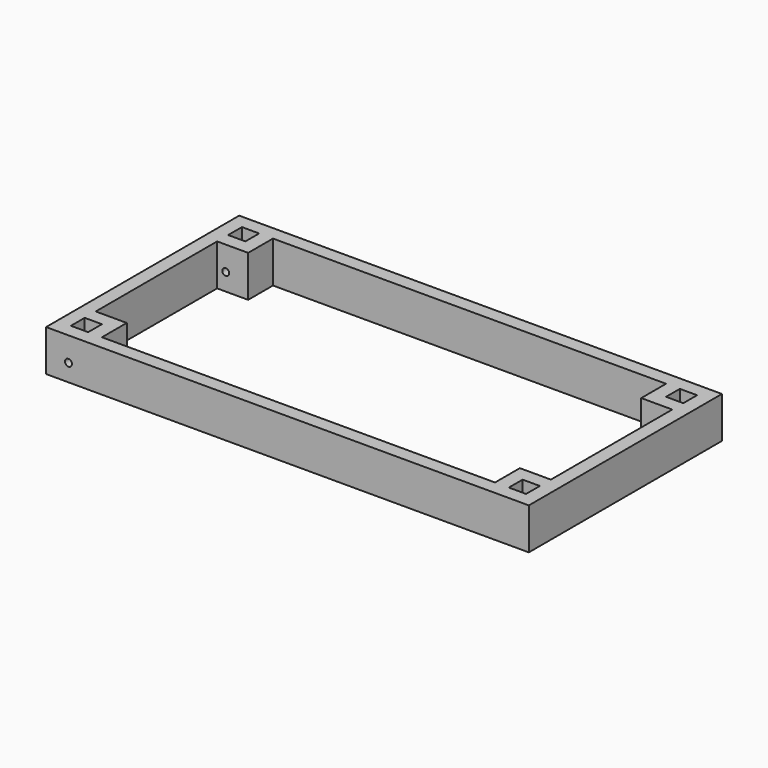
from build123d import *

# Parameters (mm, degrees)
F0_W     = 1400
F0_H     = 700
F0_W_2   = 50
F0_H_2   = 50
F1_DEPTH = 120
F2_R     = 10
F3_DEPTH = 1000


with BuildPart() as f1:
    # F0 (on Top) → F1 (new body)
    with BuildSketch(Plane.XY):
        with Locations((-1542.525277, -310)):
            Rectangle(F0_W, F0_H)
        with Locations((-2177.525277, -595)):
            Rectangle(F0_W_2, F0_H_2, mode=Mode.SUBTRACT)
        with Locations((-907.525277, -595)):
            Rectangle(F0_W_2, F0_H_2, mode=Mode.SUBTRACT)
        with Locations((-2177.525277, -25)):
            Rectangle(F0_W_2, F0_H_2, mode=Mode.SUBTRACT)
        Polygon((-2202.525277, -530), (-2202.525277, -90), (-2112.525277, -90), (-2112.525277, 0), (-972.525277, 0), (-972.525277, -90), (-882.525277, -90), (-882.525277, -530), (-972.525277, -530), (-972.525277, -620), (-2112.525277, -620), (-2112.525277, -530), align=None, mode=Mode.SUBTRACT)
        with Locations((-907.525277, -25)):
            Rectangle(F0_W_2, F0_H_2, mode=Mode.SUBTRACT)
    extrude(amount=F1_DEPTH)

    # F2 (on face) → F3 (cut)
    with BuildSketch(Plane.XZ.offset(660)):
        with Locations((-2177.525277, 50)):
            Circle(F2_R)
    extrude(amount=-F3_DEPTH, mode=Mode.SUBTRACT)


solid = f1.part
